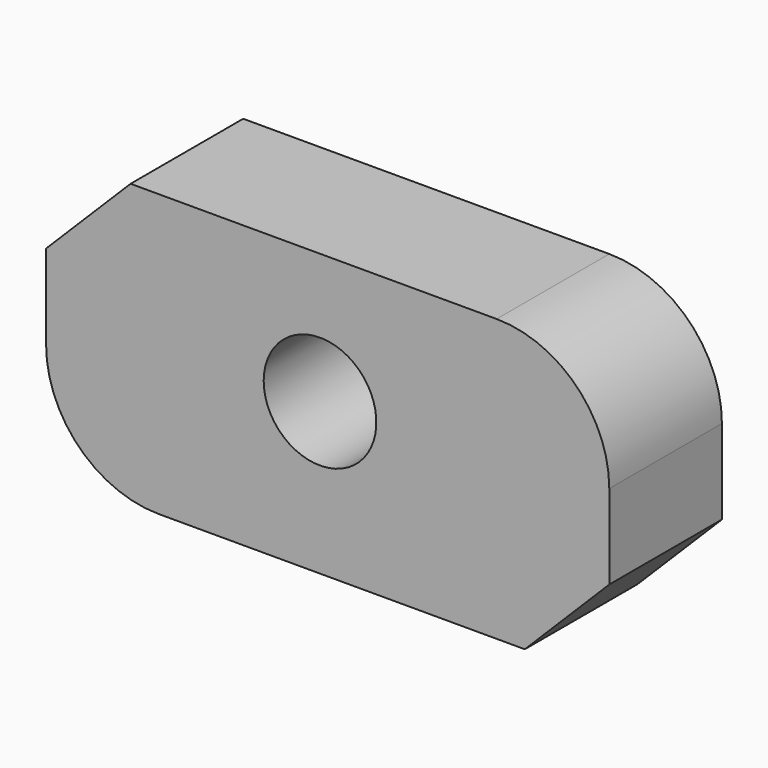
from build123d import *

# Parameters (mm, degrees)
F0_W     = 200
F0_H     = 100
F1_DEPTH = 50
F2_SIZE  = 30
F3_SIZE  = 30
F4_R     = 40
F5_R     = 40
F7_D     = 40


with BuildPart() as f1:
    # F0 (on Front) → F1 (new body)
    with BuildSketch(Plane.XZ):
        with Locations((-100, 50)):
            Rectangle(F0_W, F0_H)
    extrude(amount=F1_DEPTH)

    # F2
    f2_edges = [f1.edges().sort_by_distance(p)[0] for p in [
        (-200, -25, 100),
    ]]
    chamfer(f2_edges, length=F2_SIZE)

    # F3
    f3_edges = [f1.edges().sort_by_distance(p)[0] for p in [
        (0, -25, 0),
    ]]
    chamfer(f3_edges, length=F3_SIZE)

    # F4
    f4_edges = [f1.edges().sort_by_distance(p)[0] for p in [
        (0, -25, 100),
    ]]
    fillet(f4_edges, radius=F4_R)

    # F5
    f5_edges = [f1.edges().sort_by_distance(p)[0] for p in [
        (-200, -25, 0),
    ]]
    fillet(f5_edges, radius=F5_R)

    # F7 (through all)
    with Locations(Plane.XZ.offset(50)):
        with Locations((-102.723882, 53.78725)):
            Hole(F7_D / 2)


solid = f1.part
